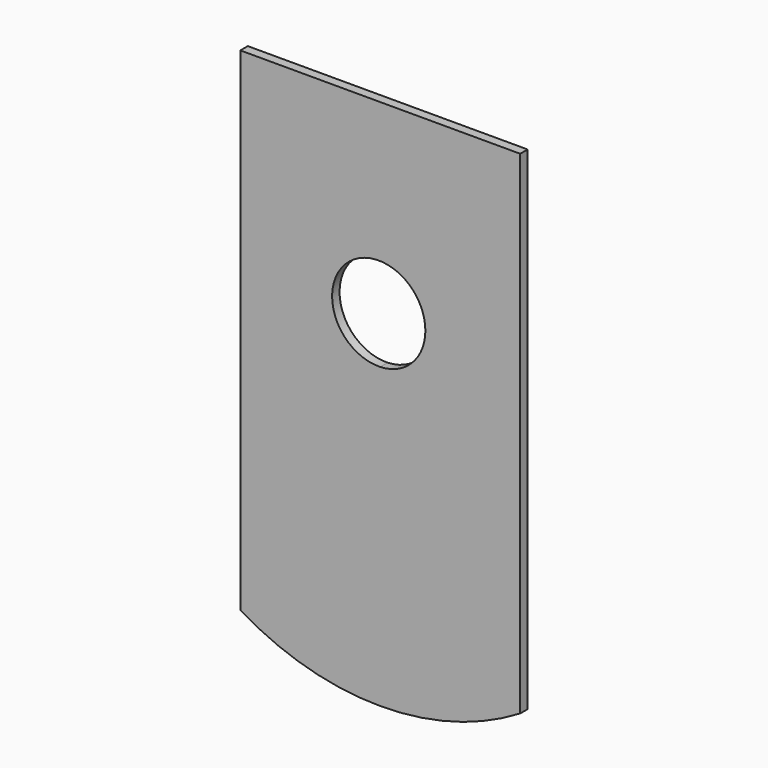
from build123d import *

# Parameters (mm, degrees)
F1_DEPTH = 25.4


with BuildPart() as f1:
    # F0 (on Front) → F1 (new body)
    with BuildSketch(Plane.XZ):
        with BuildLine():
            Line((385.175922, -833.611421), (385.175922, 0))
            Line((385.175922, 0), (385.175922, 508))
            Line((385.175922, 508), (-376.824078, 508))
            Line((-376.824078, 508), (-376.824078, -833.611421))
            ThreePointArc((-376.824078, -833.611421), (4.175922, -939.8), (385.175922, -833.611421))
        make_face()
        with BuildLine():
            ThreePointArc((4.175922, -126.931327), (-91.267032, 88.313809), (127, 0))
            ThreePointArc((127, 0), (91.267032, -88.313809), (4.175922, -126.931327))
        make_face(mode=Mode.SUBTRACT)
    extrude(amount=F1_DEPTH)


solid = f1.part
